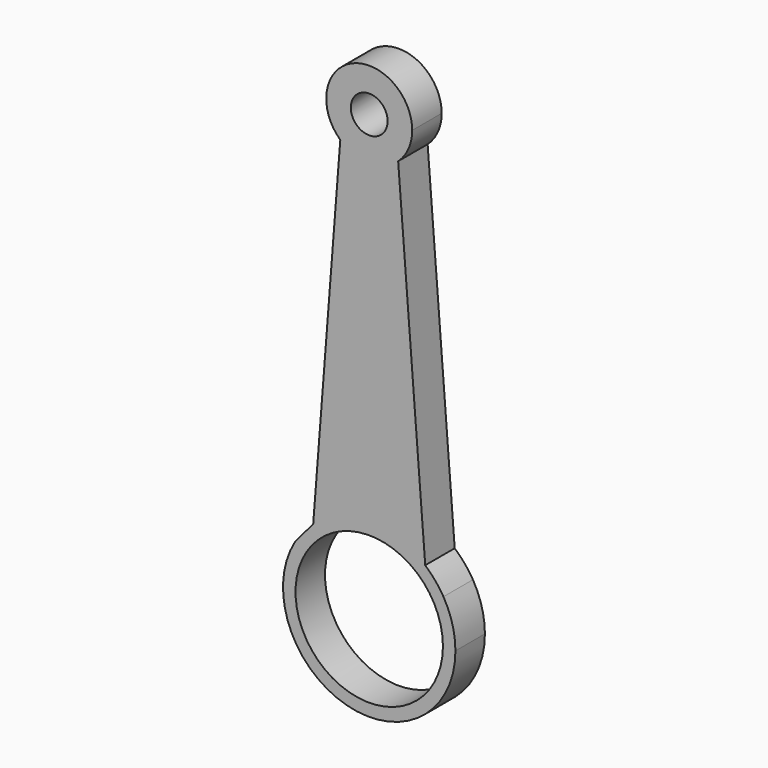
from build123d import *

# Parameters (mm, degrees)
F0_R     = 3.81
F0_R_2   = 15.24
F1_DEPTH = 3.81


with BuildPart() as f1:
    # F0 (on Front) → F1 (new body, symmetric)
    with BuildSketch(Plane.XZ):
        with BuildLine():
            ThreePointArc((5.984613, 38.451618), (8.131276, 41.431877), (8.89, 45.025544))
            ThreePointArc((8.89, 45.025544), (-3.593667, 53.156821), (-5.984613, 38.451618))
            Line((-5.984613, 38.451618), (5.984613, 38.451618))
        make_face()
        with Locations((0, 45.025544)):
            Circle(F0_R, mode=Mode.SUBTRACT)
        with BuildLine():
            ThreePointArc((5.984613, 38.451618), (0, 36.135544), (-5.984613, 38.451618))
            Line((-5.984613, 38.451618), (-11.581744, -33.278676))
            ThreePointArc((-11.581744, -33.278676), (0, -29.002925), (11.581744, -33.278676))
            Line((11.581744, -33.278676), (5.984613, 38.451618))
        make_face()
        with BuildLine():
            Line((5.984613, 38.451618), (-5.984613, 38.451618))
            ThreePointArc((-5.984613, 38.451618), (0, 36.135544), (5.984613, 38.451618))
        make_face()
        with BuildLine():
            ThreePointArc((17.823636, -46.826562), (17.194227, -42.131822), (15.350451, -37.768654))
            ThreePointArc((15.350451, -37.768654), (13.651951, -35.367667), (11.581744, -33.278676))
            ThreePointArc((11.581744, -33.278676), (0, -29.002925), (-11.581744, -33.278676))
            Line((-11.581744, -33.278676), (-15.350451, -37.768654))
            ThreePointArc((-15.350451, -37.768654), (-4.69474, -64.020789), (17.823636, -46.826562))
        make_face()
        with Locations((0, -46.826562)):
            Circle(F0_R_2, mode=Mode.SUBTRACT)
    extrude(amount=F1_DEPTH, both=True)


solid = f1.part
